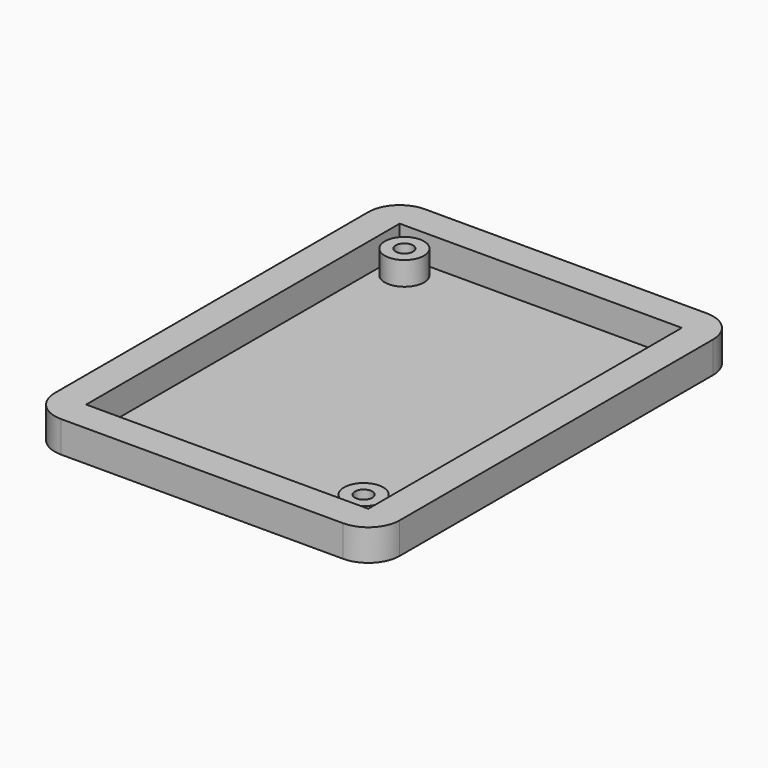
from build123d import *

# Parameters (mm, degrees)
SKETCH_W      = 44
SKETCH_H      = 58
PAD_DEPTH     = 4
SKETCH001_W   = 36
SKETCH001_H   = 50
POCKET_DEPTH  = 3.6
SKETCH002_R   = 2.5
SKETCH002_R_2 = 1.1
PAD001_DEPTH  = 3
FILLET_R      = 4


with BuildPart() as part:
    # Sketch → Pad (new body)
    with BuildSketch(Plane.XY):
        Rectangle(SKETCH_W, SKETCH_H)
    extrude(amount=PAD_DEPTH)

    # Sketch001 (on Face6 of Pad) → Pocket (cut)
    with BuildSketch(Plane.XY.offset(4)):
        Rectangle(SKETCH001_W, SKETCH001_H)
    extrude(amount=-POCKET_DEPTH, mode=Mode.SUBTRACT)

    # Sketch002 (on Face11 of Pocket) → Pad001 (join)
    with BuildSketch(Plane.XY.offset(0.4)):
        with Locations((-15, 22)):
            Circle(SKETCH002_R)
        with Locations((-15, 22)):
            Circle(SKETCH002_R_2, mode=Mode.SUBTRACT)
        with Locations((15, -22)):
            Circle(SKETCH002_R)
        with Locations((15, -22)):
            Circle(SKETCH002_R_2, mode=Mode.SUBTRACT)
    extrude(amount=PAD001_DEPTH)

    # Fillet
    fillet_edges = [part.edges().sort_by_distance(p)[0] for p in [
        (-22, -29, 2),
        (22, -29, 2),
        (22, 29, 2),
        (-22, 29, 2),
    ]]
    fillet(fillet_edges, radius=FILLET_R)


solid = part.part
